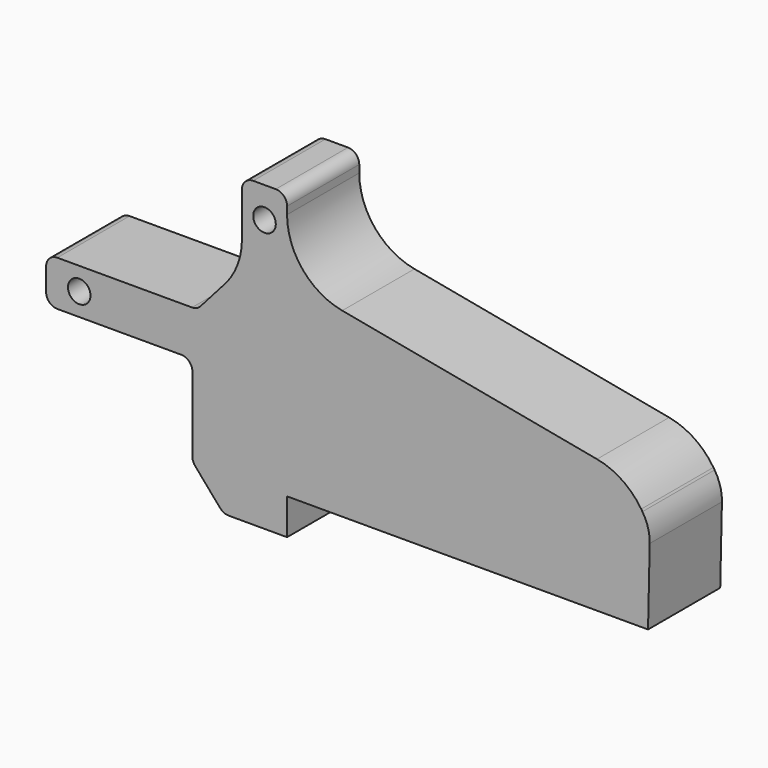
from build123d import *

# Parameters (mm, degrees)
F0_R     = 3.175
F1_DEPTH = 25.4


with BuildPart() as f1:
    # F0 (on Front) → F1 (new body)
    with BuildSketch(Plane.XZ):
        with BuildLine():
            Line((0, -10.132524), (0, 0))
            Line((0, 0), (101.599991, 0.041867))
            Line((101.599991, 0.041867), (102.077087, 21.511185))
            ThreePointArc((102.077087, 21.511185), (101.59418, 25.273168), (100.021891, 28.724779))
            Line((100.021891, 28.724779), (99.675069, 29.257246))
            ThreePointArc((99.675069, 29.257246), (94.306435, 34.692723), (87.233959, 37.581791))
            Line((87.233959, 37.581791), (15.528606, 51.068958))
            ThreePointArc((15.528606, 51.068958), (4.387377, 57.628839), (0, 69.790664))
            Line((0, 69.790664), (0, 71.908293))
            ThreePointArc((0, 71.908293), (-0.929936, 74.153357), (-3.175, 75.083293))
            Line((-3.175, 75.083293), (-9.525, 75.083293))
            ThreePointArc((-9.525, 75.083293), (-11.770064, 74.153357), (-12.7, 71.908293))
            Line((-12.7, 71.908293), (-12.7, 59.585112))
            ThreePointArc((-12.7, 59.585112), (-13.935466, 52.836417), (-17.481616, 46.963079))
            Line((-17.481616, 46.963079), (-24.37432, 39.171328))
            ThreePointArc((-24.37432, 39.171328), (-25.448262, 38.380196), (-26.752384, 38.1))
            Line((-26.752384, 38.1), (-64.65597, 38.1))
            ThreePointArc((-64.65597, 38.1), (-66.901034, 37.170064), (-67.83097, 34.925))
            Line((-67.83097, 34.925), (-67.83097, 28.575))
            ThreePointArc((-67.83097, 28.575), (-66.901034, 26.329936), (-64.65597, 25.4))
            Line((-64.65597, 25.4), (-29.819608, 25.4))
            ThreePointArc((-29.819608, 25.4), (-27.574544, 24.470064), (-26.644608, 22.225))
            Line((-26.644608, 22.225), (-26.644608, 1.181645))
            ThreePointArc((-26.644608, 1.181645), (-26.445211, 0.07421), (-25.872065, -0.894126))
            Line((-25.872065, -0.894126), (-18.839654, -9.033296))
            ThreePointArc((-18.839654, -9.033296), (-17.758192, -9.844668), (-16.437198, -10.132524))
            Line((-16.437198, -10.132524), (0, -10.132524))
        make_face()
        with Locations((-58.503143, 31.75)):
            Circle(F0_R, mode=Mode.SUBTRACT)
        with Locations((-6.35, 66.409032)):
            Circle(F0_R, mode=Mode.SUBTRACT)
    extrude(amount=F1_DEPTH)


solid = f1.part
